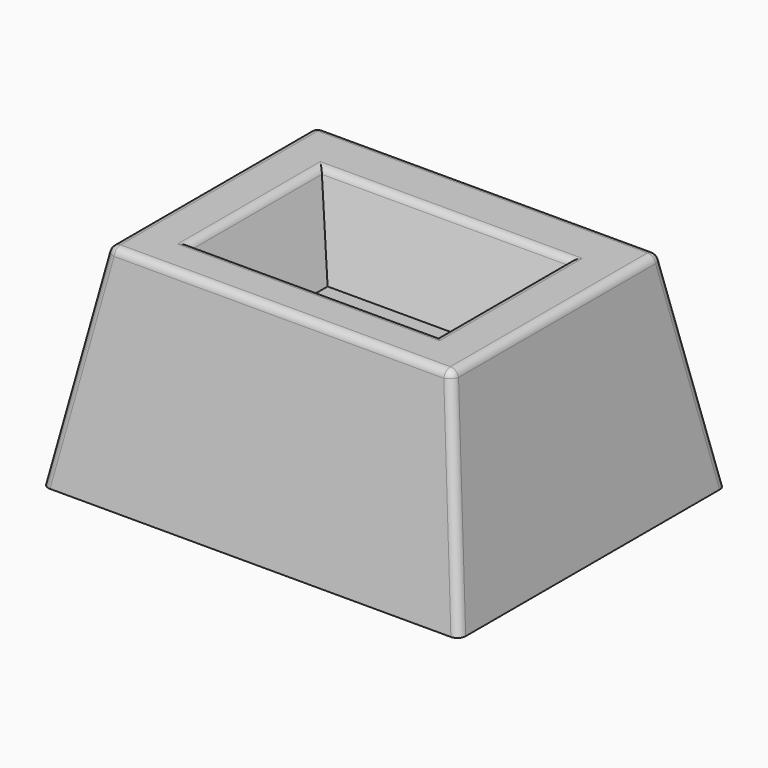
from build123d import *

# Parameters (mm, degrees)
F0_W     = 254
F0_H     = 203.2
F1_DEPTH = 127
F1_TAPER = 10
F2_W     = 152.4
F2_H     = 101.6
F3_DEPTH = 50.8
F3_TAPER = 20
F4_R     = 5.08


with BuildPart() as f1:
    # F0 (on Top) → F1 (new body)
    with BuildSketch(Plane.XY):
        Rectangle(F0_W, F0_H)
    extrude(amount=F1_DEPTH, taper=F1_TAPER)

    # F2 (on face) → F3 (cut)
    with BuildSketch(Plane.XY.offset(127)):
        with Locations((0, -3.0865822919)):
            Rectangle(F2_W, F2_H)
    extrude(amount=-F3_DEPTH, taper=F3_TAPER, mode=Mode.SUBTRACT)

    # F4
    f4_edges = [f1.edges().sort_by_distance(p)[0] for p in [
        (104.606473, 0, 127),
        (0, -79.206473, 127),
        (0, 79.206473, 127),
        (-104.606473, 0, 127),
        (76.2, -3.086582, 127),
        (0, 47.713418, 127),
        (-76.2, -3.086582, 127),
        (0, -53.886582, 127),
        (-115.803237, 90.403237, 63.5),
        (115.803237, 90.403237, 63.5),
        (115.803237, -90.403237, 63.5),
        (-115.803237, -90.403237, 63.5),
    ]]
    fillet(f4_edges, radius=F4_R)


solid = f1.part
